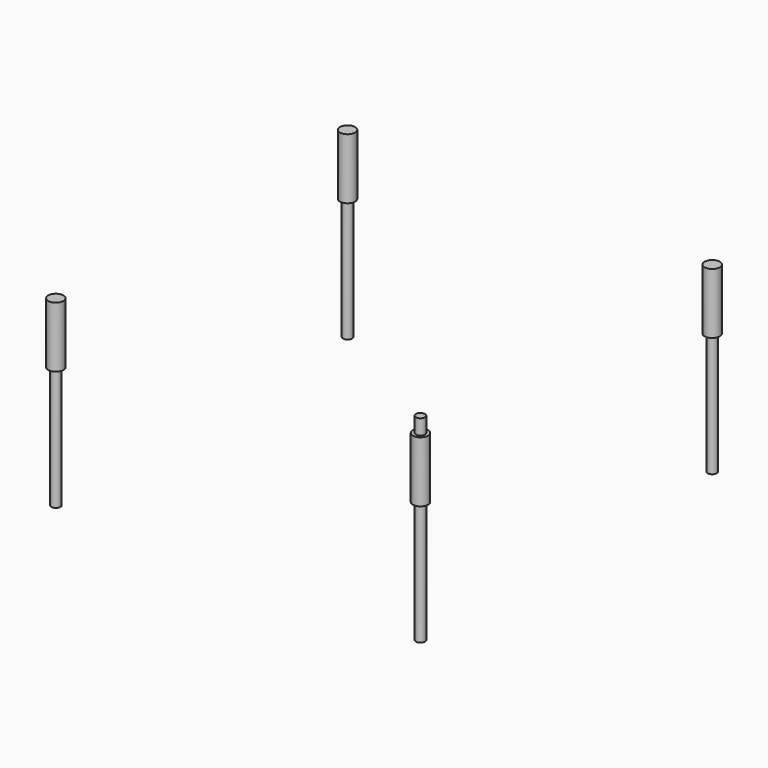
from build123d import *

# Parameters (mm, degrees)
F0_R     = 1.5
F1_DEPTH = 40
F0_R_2   = 2.5
F2_DEPTH = 20
F4_COUNT = 4
F5_DEPTH = 25


with BuildPart() as f1:
    # F0 (on Top) → F1 (new body)
    with BuildSketch(Plane.XY):
        with Locations((60, -60)):
            Circle(F0_R)
    extrude(amount=-F1_DEPTH)

    # F0 (on Top) → F2 (join)
    with BuildSketch(Plane.XY):
        with Locations((60, -60)):
            Circle(F0_R_2)
        with Locations((60, -60)):
            Circle(F0_R, mode=Mode.SUBTRACT)
        with Locations((60, -60)):
            Circle(F0_R)
    extrude(amount=F2_DEPTH)


with BuildPart() as f4_1:
    # F4: instance of F1
    add(f1.part.rotate(Axis((0, 0, 25), (0, 0, 1)), 1 * 360 / F4_COUNT))


with BuildPart() as f4_2:
    # F4: instance of F1
    add(f1.part.rotate(Axis((0, 0, 25), (0, 0, 1)), 2 * 360 / F4_COUNT))


with BuildPart() as f4_3:
    # F4: instance of F1
    add(f1.part.rotate(Axis((0, 0, 25), (0, 0, 1)), 3 * 360 / F4_COUNT))


with BuildPart() as f1_1:
    add(f1.part)

    # F0 (on Top) → F5 (join)
    with BuildSketch(Plane.XY):
        with Locations((60, -60)):
            Circle(F0_R)
    extrude(amount=F5_DEPTH)


solid = Compound([f4_1.part, f4_2.part, f4_3.part, f1_1.part])
